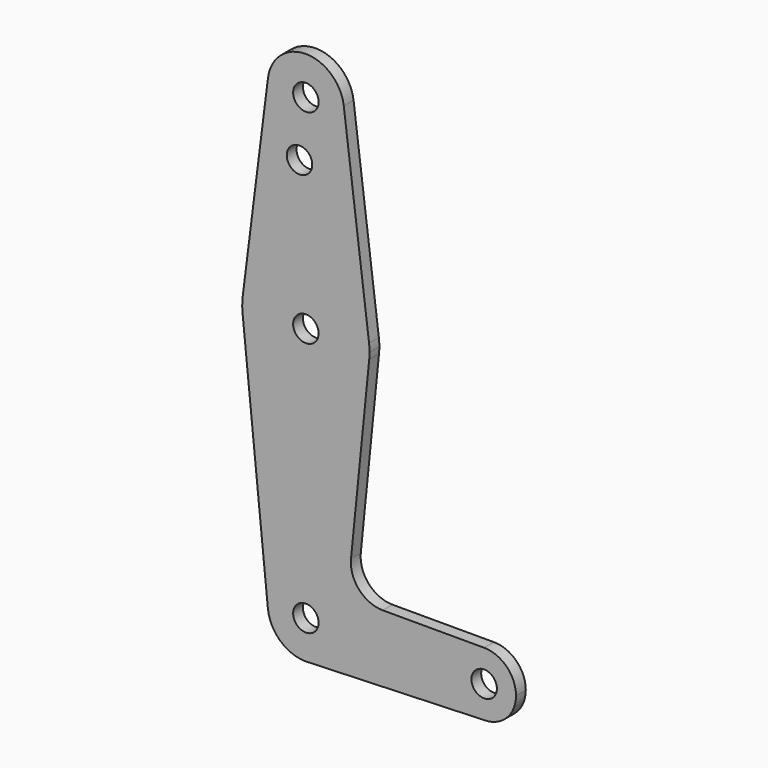
from build123d import *

# Parameters (mm, degrees)
F0_R     = 3.175
F1_DEPTH = 3.048


with BuildPart() as f1:
    # F0 (on Front) → F1 (new body)
    with BuildSketch(Plane.XZ):
        with BuildLine():
            ThreePointArc((15.795426, 61.9125), (15.855094, 62.705253), (15.875, 63.5))
            ThreePointArc((15.875, 63.5), (15.843841, 64.494139), (15.750488, 65.484375))
            ThreePointArc((15.750488, 65.484375), (0, 79.375), (-15.750488, 65.484375))
            ThreePointArc((-15.750488, 65.484375), (-15.873744, 63.699705), (-15.795426, 61.9125))
            ThreePointArc((-15.795426, 61.9125), (0, 47.625), (15.795426, 61.9125))
        make_face()
        with Locations((0, 63.5)):
            Circle(F0_R, mode=Mode.SUBTRACT)
        with BuildLine():
            ThreePointArc((-15.750488, 65.484375), (0, 79.375), (15.750488, 65.484375))
            Line((15.750488, 65.484375), (9.450293, 115.490625))
            ThreePointArc((9.450293, 115.490625), (9.506305, 114.896483), (9.525, 114.3))
            ThreePointArc((9.525, 114.3), (-0.596483, 104.793695), (-9.450293, 115.490625))
            Line((-9.450293, 115.490625), (-15.750488, 65.484375))
        make_face()
        with Locations((-1.5875, 100.0252)):
            Circle(F0_R, mode=Mode.SUBTRACT)
        with BuildLine():
            Line((11.249662, 16.68272), (15.795426, 61.9125))
            ThreePointArc((15.795426, 61.9125), (0, 47.625), (-15.795426, 61.9125))
            Line((-15.795426, 61.9125), (-9.477255, -0.9525))
            ThreePointArc((-9.477255, -0.9525), (-0.476848, 9.513056), (9.525, 0))
            ThreePointArc((9.525, 0), (6.97129, -6.490511), (0.67949, -9.500732))
            Line((0.67949, -9.500732), (44.45, -7.9375))
            ThreePointArc((44.45, -7.9375), (36.5125, 0), (44.45, 7.9375))
            Line((44.45, 7.9375), (19.160011, 7.9375))
            ThreePointArc((19.160011, 7.9375), (13.263985, 10.554544), (11.249662, 16.68272))
        make_face()
        with BuildLine():
            ThreePointArc((9.525, 114.3), (9.506305, 114.896483), (9.450293, 115.490625))
            ThreePointArc((9.450293, 115.490625), (0, 123.825), (-9.450293, 115.490625))
            ThreePointArc((-9.450293, 115.490625), (-0.596483, 104.793695), (9.525, 114.3))
        make_face()
        with Locations((0, 114.3)):
            Circle(F0_R, mode=Mode.SUBTRACT)
        with BuildLine():
            ThreePointArc((9.525, 0), (-0.476848, 9.513056), (-9.477255, -0.9525))
            ThreePointArc((-9.477255, -0.9525), (-6.389564, -7.063929), (0, -9.525))
            Line((0, -9.525), (0.67949, -9.500732))
            ThreePointArc((0.67949, -9.500732), (6.97129, -6.490511), (9.525, 0))
        make_face()
        Circle(F0_R, mode=Mode.SUBTRACT)
        with BuildLine():
            Line((0.67949, -9.500732), (0, -9.525))
            ThreePointArc((0, -9.525), (0.339962, -9.518931), (0.67949, -9.500732))
        make_face()
        with BuildLine():
            ThreePointArc((52.3875, 0), (50.06266, 5.61266), (44.45, 7.9375))
            ThreePointArc((44.45, 7.9375), (36.5125, 0), (44.45, -7.9375))
            ThreePointArc((44.45, -7.9375), (50.06266, -5.61266), (52.3875, 0))
        make_face()
        with Locations((44.45, 0)):
            Circle(F0_R, mode=Mode.SUBTRACT)
    extrude(amount=F1_DEPTH)


solid = f1.part
